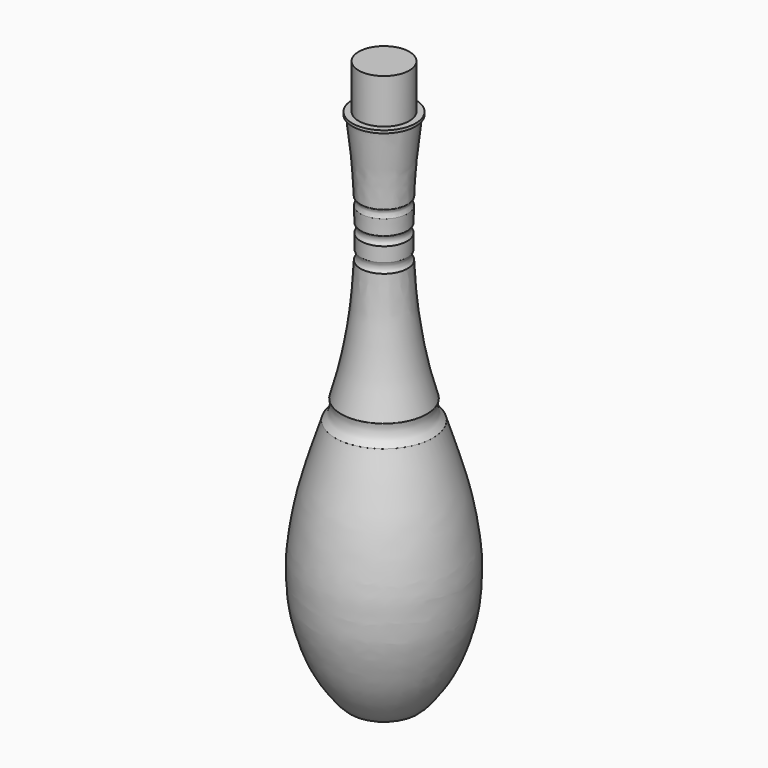
from build123d import *


with BuildPart() as f1:
    # F0 (on Front) → F1 (revolve)
    with BuildSketch(Plane.XZ):
        with BuildLine():
            Line((0, -124.0947796885), (0, 179.0503263474))
            Line((0, 179.0503263474), (-14.6003337577, 179.0950298729))
            Line((-14.6003337577, 179.0950298729), (-14.6003337577, 153.489947319))
            Line((-14.6003337577, 153.489947319), (-18.2334464043, 153.489947319))
            Line((-18.2334464043, 153.489947319), (-18.2334464043, 151.9288569689))
            Line((-18.2334464043, 151.9288569689), (-17.1832498163, 151.9288569689))
            add(Edge.make_bspline(
                [(-13.6033827439, 110.8846515417), (-13.8146765395, 114.9409947272), (-14.2214389597, 122.7498750871), (-14.9881773692, 132.2225177405), (-16.541423105, 146.1895754392), (-17.0033996629, 150.3206181015), (-17.1832498163, 151.9288569689)],
                knots=[0, 0, 0, 0, 0.2698824285, 0.5195516007, 0.8129586517, 1, 1, 1, 1], degree=3))
            add(Edge.make_bspline(
                [(-13.4863946587, 106.1510145664), (-13.2579868336, 106.5855436757), (-12.7842813766, 107.4867335107), (-12.8356370914, 109.2659439867), (-13.1420948247, 110.2263024748), (-13.4562658369, 110.6746866273), (-13.6033827439, 110.8846515417)],
                knots=[0, 0, 0, 0, 0.2772308329, 0.5749617303, 0.8009672657, 1, 1, 1, 1], degree=3))
            Line((-13.4863946587, 106.1510145664), (-13.3246378973, 97.3669961095))
            add(Edge.make_bspline(
                [(-13.3246378973, 92.1730995178), (-13.0413727545, 92.6323753179), (-12.4820912879, 93.5391739467), (-12.4137045368, 95.0734171606), (-12.6534242113, 96.4483657732), (-13.1087892153, 97.0715832604), (-13.3246378973, 97.3669961095)],
                knots=[0, 0, 0, 0, 0.26744866, 0.5280532484, 0.7762913632, 1, 1, 1, 1], degree=3))
            Line((-13.3246378973, 92.1730995178), (-13.3246378973, 83.9096307755))
            add(Edge.make_bspline(
                [(-13.5593535379, 78.3692896366), (-13.3372315638, 78.6869355169), (-12.8569701634, 79.3737340923), (-12.5639270181, 80.9901013152), (-12.6808907318, 82.6008894563), (-13.1141116929, 83.4816299123), (-13.3246378973, 83.9096307755)],
                knots=[0, 0, 0, 0, 0.2263783247, 0.4894642762, 0.7519022443, 1, 1, 1, 1], degree=3))
            add(Edge.make_bspline(
                [(-24.6478766203, 8.2401931286), (-23.5261896735, 12.2928718642), (-21.5704200988, 19.3591088296), (-20.1919140989, 25.3010086073), (-17.9981024103, 35.8204239098), (-17.0457140544, 42.5375845113), (-14.8934711413, 55.906658368), (-14.0456796703, 70.1809825785), (-13.5593535379, 78.3692896366)],
                knots=[0, 0, 0, 0, 0.1682663288, 0.2933886031, 0.4522462935, 0.5826960334, 0.7606182286, 1, 1, 1, 1], degree=3))
            add(Edge.make_bspline(
                [(-28.1015541404, -2.7391454205), (-27.1122803301, -1.7346261025), (-25.161602391, 0.2461133574), (-24.3239430495, 4.316097403), (-24.2248931097, 6.2533020912), (-24.5063827238, 7.575550305), (-24.6478766203, 8.2401931286)],
                knots=[0, 0, 0, 0, 0.2998228702, 0.591199173, 0.7945117012, 1, 1, 1, 1], degree=3))
            add(Edge.make_bspline(
                [(0, -147.2948640585), (-9.833172895, -147.4630087614), (-16.3344312611, -147.8399946221), (-21.3533175488, -144.322477052), (-30.9441594921, -131.6938967158), (-37.3495716767, -118.0173533822), (-41.9193129781, -102.7837311832), (-43.8637920224, -90.3938028123), (-44.1921210275, -77.1187032151), (-43.9914198651, -68.1787659225), (-41.399373405, -48.6716266867), (-36.3773968886, -27.8992242755), (-28.2650374245, -3.6461410565), (-28.1197471428, -2.8400790562), (-28.1015541404, -2.7391454205)],
                knots=[0, 0, 0, 0, 0.0950801316, 0.1459219982, 0.2364252068, 0.3290365584, 0.4203310363, 0.5033678743, 0.5859272174, 0.655515493, 0.7548135, 0.8712724424, 0.9830712163, 1, 1, 1, 1], degree=3))
            Line((0, -147.2948640585), (0, -124.0947796885))
        make_face()
    revolve(axis=Axis((0, 0, 27.4777733294), (0, 0, -1)))


solid = f1.part
